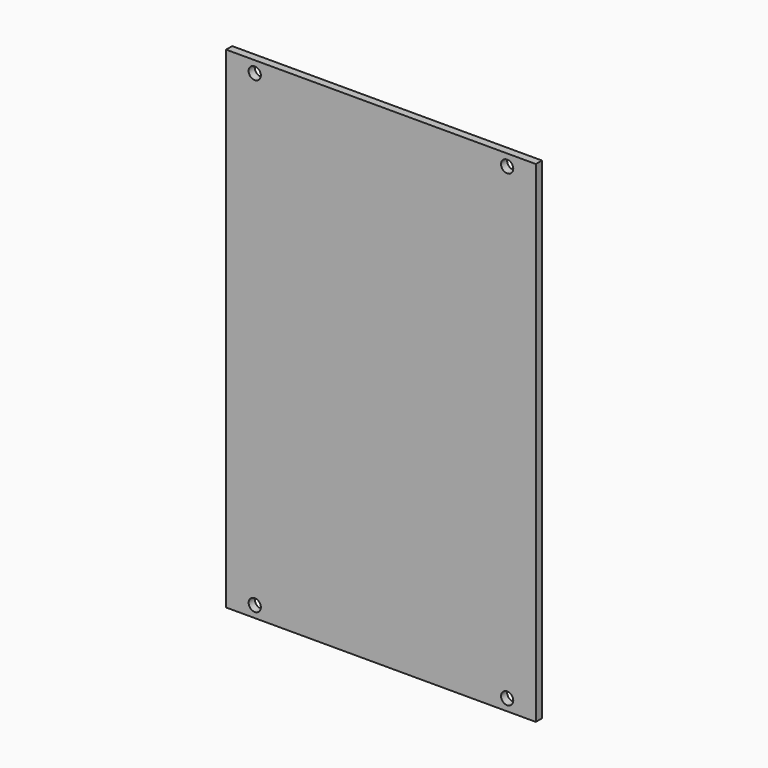
from build123d import *

# Parameters (mm, degrees)
SKETCH_W  = 81.04
SKETCH_H  = 128.5
SKETCH_R  = 1.6
PAD_DEPTH = 2


with BuildPart() as part:
    # Sketch → Pad (new body)
    with BuildSketch(Plane.XZ):
        Rectangle(SKETCH_W, SKETCH_H)
        with Locations((-33.02, 61.25)):
            Circle(SKETCH_R, mode=Mode.SUBTRACT)
        with Locations((33.02, 61.25)):
            Circle(SKETCH_R, mode=Mode.SUBTRACT)
        with Locations((33.02, -61.25)):
            Circle(SKETCH_R, mode=Mode.SUBTRACT)
        with Locations((-33.02, -61.25)):
            Circle(SKETCH_R, mode=Mode.SUBTRACT)
    extrude(amount=PAD_DEPTH)


solid = part.part
